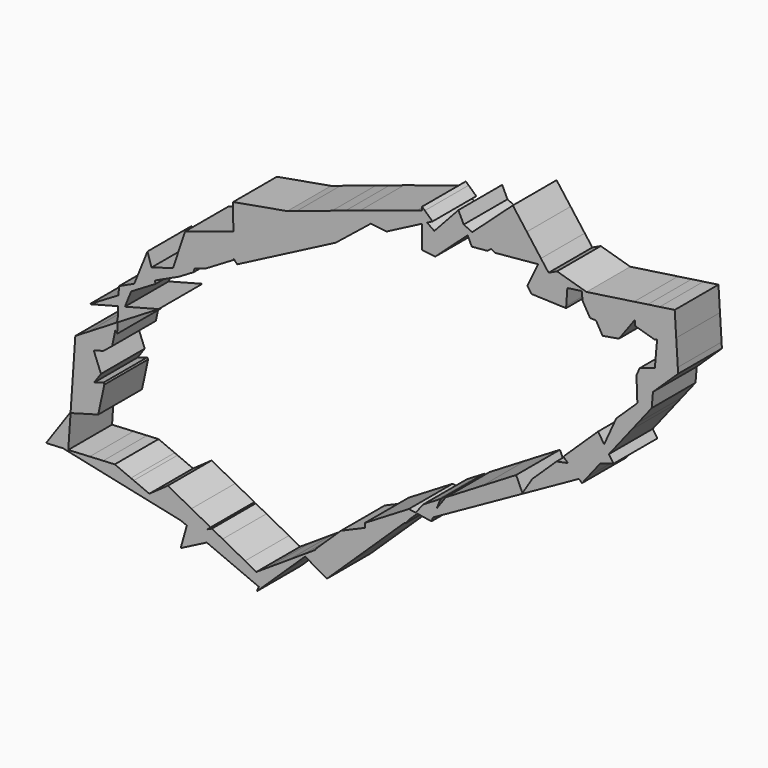
from build123d import *

# Parameters (mm, degrees)
F1_DEPTH = 25.4


with BuildPart() as f1:
    # F0 (on Front) → F1 (new body)
    with BuildSketch(Plane.XZ):
        Polygon((-83.2220044887, 34.1819998944), (-81.8421875712, 32.7432366085), (-62.7305352638, 42.6557927488), (-60.8082101417, 43.6528366143), (-57.3657237442, 54.0301553549), (-83.6656720096, 45.5152120146), (-83.5831125741, 34.5585346716), align=None)
        Polygon((-96.8397507042, 26.0700082279), (-83.5786744089, 33.9695342357), (-83.5831125741, 34.5585346716), (-83.6656720096, 45.5152120146), (-106.0841596035, 38.2569410207), (-111.6215479857, 21.5645746327), (-101.6926651441, 24.5908590192), align=None)
        Polygon((-108.7854865984, 18.9540208618), (-102.0132495787, 22.9881928458), (-101.6926651441, 24.5908590192), (-111.6215479857, 21.5645746327), (-113.1604924798, 16.9254517152), align=None)
        Polygon((-137.3900234875, -9.0144044901), (-118.3311260267, 2.5917971458), (-133.992912574, -1.5184298071), (-137.110999293, -2.3367300716), (-137.320639215, -7.3538833201), align=None)
        Polygon((-131.0952053419, 5.6642848317), (-119.7552560668, 12.4194095463), (-120.149881275, 13.6846655659), (-129.6335617545, 9.2873453934), align=None)
        Polygon((-57.3657237442, 54.0301553549), (-60.8082101417, 43.6528366143), (-52.7419894493, 47.8365076108), (-40.268303578, 54.3061790702), (-37.7829690162, 68.97902882), (-54.2202595592, 63.5121055114), (-54.4607710501, 62.7870875698), align=None)
        Polygon((-83.7567299604, 57.5997494161), (-83.6656720096, 45.5152120146), (-57.3657237442, 54.0301553549), (-54.4607710501, 62.7870875698), (-58.6081506785, 62.0527248323), align=None)
        Polygon((-113.1604924798, 16.9254517152), (-111.6215479857, 21.5645746327), (-121.6538629104, 18.5067645547), (-120.149881275, 13.6846655659), align=None)
        Polygon((-137.588918752, -13.7744139984), (-137.3900234875, -9.0144044901), (-137.7185016842, -9.2144362176), (-138.4735216764, -12.7451905435), align=None)
        Polygon((-137.7185016842, -9.2144362176), (-137.3900234875, -9.0144044901), (-137.320639215, -7.3538833201), align=None)
        Polygon((-137.110999293, -2.3367300716), (-133.992912574, -1.5184298071), (-131.0952053419, 5.6642848317), (-136.9217060714, 2.193481028), align=None)
        Polygon((-136.9217060714, 2.193481028), (-131.0952053419, 5.6642848317), (-129.6335617545, 9.2873453934), (-136.7634282695, 5.9814236132), align=None)
        Polygon((-129.6335617545, 9.2873453934), (-120.149881275, 13.6846655659), (-121.6538629104, 18.5067645547), (-123.5114459593, 24.46258817), align=None)
        Polygon((-138.4735216764, -12.7451905435), (-137.7185016842, -9.2144362176), (-140.2061353838, -10.7293180922), align=None)
        Polygon((-150.3664255142, -5.8154398575), (-137.110999293, -2.3367300716), (-136.9217060714, 2.193481028), align=None)
        Polygon((-37.7829690162, 68.97902882), (-40.268303578, 54.3061790702), (-36.132622101, 56.451214683), (-34.5214768981, 57.7440159398), (-23.0167889149, 66.9755085808), (-19.7767771506, 69.5753309142), (-31.4743959147, 71.0772143599), align=None)
        Polygon((-58.6081506785, 62.0527248323), (-54.4607710501, 62.7870875698), (-54.2202595592, 63.5121055114), align=None)
        Polygon((-138.4735216764, -12.7451905435), (-140.2061353838, -10.7293180922), (-151.1045144158, -17.3660495616), (-148.47218649, -24.0432336133), (-144.0369706442, -22.8790033584), (-139.934687589, -19.5781458552), align=None)
        Polygon((-148.47218649, -24.0432336133), (-151.1045144158, -17.3660495616), (-157.0042679633, -20.9587930252), (-157.3767672125, -26.3806581368), align=None)
        Polygon((-24.7313212603, 73.3199119568), (-31.4743959147, 71.0772143599), (-19.7767771506, 69.5753309142), (-12.6044620847, 68.6544613353), (-5.0561815839, 72.5694945843), (3.9570122026, 77.2443279255), (3.9570122026, 80.1097009528), (1.5176249669, 81.8183427374), align=None)
        Polygon((-145.1019902875, -32.592100232), (-148.47218649, -24.0432336133), (-157.3767672125, -26.3806581368), (-158.3560655042, -40.6347089949), (-148.3430013656, -37.2399311525), align=None)
        Polygon((3.9570122026, 82.6081254353), (1.5176249669, 81.8183427374), (3.9570122026, 80.1097009528), align=None)
        Polygon((6.3074038346, 78.4633951537), (3.9570122026, 77.2443279255), (3.9570122026, 69.9554303164), (9.6375205337, 76.130851777), align=None)
        Polygon((3.9570122026, 80.1097009528), (3.9570122026, 77.2443279255), (6.3074038346, 78.4633951537), align=None)
        Polygon((-148.3430013656, -37.2399311525), (-158.3560655042, -40.6347089949), (-159.191701905, -52.7977075985), align=None)
        Polygon((-143.5561278048, -36.5133473586), (-143.8678261901, -35.7226907437), (-148.3430013656, -37.2399311525), (-159.191701905, -52.7977075985), (-159.2188908761, -53.1934531856), (-146.3605087762, -49.6276759164), align=None)
        Polygon((3.9570122026, 84.2269028658), (3.9570122026, 82.6081254353), (5.258677497, 83.029556159), align=None)
        Polygon((5.258677497, 83.029556159), (3.9570122026, 82.6081254353), (3.9570122026, 80.1097009528), (6.3074038346, 78.4633951537), (8.8110007136, 79.7619246694), align=None)
        Polygon((9.6375205337, 76.130851777), (3.9570122026, 69.9554303164), (3.9570122026, 66.5280965964), (10.0217575965, 65.7494303658), (16.3161148342, 71.452904333), align=None)
        Polygon((-159.2188908761, -53.1934531856), (-159.191701905, -52.7977075985), (-159.5261994105, -53.2773998339), (-159.5251493026, -53.2783821702), align=None)
        Polygon((-131.1995151419, -70.6480673811), (-138.6882314909, -67.4803139058), (-144.0476950401, -67.7569572917), (-137.1515022254, -74.2080857542), (-137.0731192929, -74.2248867772), align=None)
        Polygon((18.27172145, 85.5173056869), (9.6375205337, 76.130851777), (16.3161148342, 71.452904333), (16.4564557344, 71.5800707205), (25.1033162583, 79.4152065469), (23.2838190174, 83.1990578257), align=None)
        Polygon((-159.5251493026, -53.2783821702), (-159.5261994105, -53.2773998339), (-159.5273003709, -53.2789786862), align=None)
        Polygon((-122.6549564349, -74.2624459042), (-129.8790989263, -71.2066081056), (-131.1995151419, -70.6480673811), (-137.0731192929, -74.2248867772), (-125.974684884, -76.6037854092), align=None)
        Polygon((-137.1515022254, -74.2080857542), (-144.0476950401, -67.7569572917), (-150.306375451, -68.0800162181), (-150.9828370801, -71.2434024166), align=None)
        Polygon((-160.2770036051, -68.5946774909), (-159.2428677772, -53.5424458982), (-159.5251493026, -53.2783821702), (-159.5273003709, -53.2789786862), (-169.3142597187, -67.3141458537), (-162.7456269018, -68.7221022417), align=None)
        Polygon((-150.9828370801, -71.2434024166), (-150.306375451, -68.0800162181), (-160.2770036051, -68.5946774909), (-160.3214569175, -69.2417119855), align=None)
        Polygon((20.8311303709, 88.299702588), (18.27172145, 85.5173056869), (23.2838190174, 83.1990578257), align=None)
        Polygon((-103.0939009169, -74.0315394588), (-114.0614935244, -68.2016446954), (-122.6549564349, -74.2624459042), (-108.0238063557, -80.4514740834), (-105.2409542057, -81.6286303753), align=None)
        Polygon((-108.0238063557, -80.4514740834), (-122.6549564349, -74.2624459042), (-125.974684884, -76.6037854092), align=None)
        Polygon((-137.1097174905, -74.2471737989), (-137.0731192929, -74.2248867772), (-137.1515022254, -74.2080857542), align=None)
        Polygon((-160.3214569175, -69.2417119855), (-160.2770036051, -68.5946774909), (-162.7456269018, -68.7221022417), align=None)
        Polygon((27.2530746021, 81.3631561606), (23.2838190174, 83.1990578257), (25.1033162583, 79.4152065469), align=None)
        Polygon((-162.7456269018, -68.7221022417), (-169.3142597187, -67.3141458537), (-170.5779681883, -69.126389983), align=None)
        Polygon((-95.6277698278, -80.0357535481), (-94.201444684, -78.7583820652), (-103.0939009169, -74.0315394588), (-105.2409542057, -81.6286303753), (-96.0043826367, -85.5357327842), (-88.6155886567, -81.7275799529), (-93.5849167756, -79.0861014612), align=None)
        Polygon((27.2530746021, 81.3631561606), (25.1033162583, 79.4152065469), (27.052459988, 75.3617406616), (34.2249594607, 76.0275427159), (35.9689739141, 77.3317871246), align=None)
        Polygon((46.0874680728, 98.4294694939), (27.2530746021, 81.3631561606), (35.9689739141, 77.3317871246), (52.5926474392, 89.7636412323), align=None)
        Polygon((10.1829350137, -33.8672764992), (4.4702975126, -37.3182424142), (0.9464814216, -41.8267046353), (1.7530890085, -41.9517503273), align=None)
        Polygon((-96.0043826367, -85.5357327842), (-105.2409542057, -81.6286303753), (-108.1081842189, -91.7739803777), align=None)
        Polygon((52.5926474392, 89.7636412323), (35.9689739141, 77.3317871246), (38.0259418984, 76.3803767489), (57.8187099214, 78.2176812561), (59.1624292223, 81.0117533225), align=None)
        Polygon((-78.2046141015, -87.2616007917), (-88.6155886567, -81.7275799529), (-96.0043826367, -85.5357327842), (-83.8550035386, -90.6749630696), align=None)
        Polygon((-2.1883967992, -41.3407148892), (-22.600604938, -53.671592618), (-22.6006050298, -55.6794670081), (-4.3696717015, -47.8236605242), (-1.8581907254, -45.4150753367), (0.9464814216, -41.8267046353), align=None)
        Polygon((10.7509668241, -36.91112682), (12.5576870842, -32.4327047362), (10.1829350137, -33.8672764992), (1.7530890085, -41.9517503273), (6.2882476991, -42.6548208983), (6.899109846, -42.3141659703), align=None)
        Polygon((47.6308353676, -11.2452516147), (38.9015665051, -16.5185442577), (31.8688408262, -20.7669665674), (14.9920420386, -30.9621272716), (10.7509668241, -36.91112682), (9.0566194566, -41.1110037106), (50.2576824285, -18.1347148523), (50.5394385805, -17.6877290619), align=None)
        Polygon((1.7530890085, -41.9517503273), (0.9464814216, -41.8267046353), (-1.8581907254, -45.4150753367), align=None)
        Polygon((-72.9480253365, -90.0557745372), (-78.2046141015, -87.2616007917), (-83.8550035386, -90.6749630696), (-77.8088409329, -93.2325112144), align=None)
        Polygon((-22.6006050298, -55.6794670081), (-33.698808137, -60.4617419668), (-35.3296609384, -62.0257784606), (-29.2743595238, -71.7079991906), (-22.6006054698, -65.3076699378), align=None)
        Polygon((-29.2743595238, -71.7079991906), (-35.3296609384, -62.0257784606), (-45.6164911128, -71.8911555111), (-45.4382328828, -72.0770290089), (-37.8785451079, -79.9596698764), align=None)
        Polygon((-4.3696717015, -47.8236605242), (-22.6006050298, -55.6794670081), (-22.6006054698, -65.3076699378), align=None)
        Polygon((9.0566194566, -41.1110037106), (10.7509668241, -36.91112682), (6.899109846, -42.3141659703), align=None)
        Polygon((-3.4213518331, -47.4150244309), (-1.8581907254, -45.4150753367), (-4.3696717015, -47.8236605242), align=None)
        Polygon((62.6858396208, 76.3180673087), (59.1624292223, 81.0117533225), (57.8187099214, 78.2176812561), (55.2084180986, 72.7899528145), align=None)
        Polygon((55.2084180986, 72.7899528145), (53.4943394657, 69.2257714974), (52.8425835073, 67.8705382161), (54.7278077733, 65.0536690648), (70.8168573561, 64.4762931582), (70.8808902592, 65.4010890937), (62.6858396208, 76.3180673087), align=None)
        Polygon((-68.0694435404, -86.8674269407), (-72.9480253365, -90.0557745372), (-77.8088409329, -93.2325112144), (-71.8314441703, -95.7609711647), align=None)
        Polygon((8.3075116182, -42.967860669), (9.0566194566, -41.1110037106), (6.899109846, -42.3141659703), (6.6196307782, -42.7061941151), align=None)
        Polygon((6.6196307782, -42.7061941151), (6.899109846, -42.3141659703), (6.2882476991, -42.6548208983), align=None)
        Polygon((55.122395939, -10.4171981355), (50.5394385805, -17.6877290619), (50.6439820537, -17.9192900274), (76.7985609069, -3.3338615129), (71.6520492349, 1.4469224687), (66.3937779637, 0.4046296355), align=None)
        Polygon((50.6439820537, -17.9192900274), (50.5394385805, -17.6877290619), (50.2576824285, -18.1347148523), align=None)
        Polygon((66.601661771, 78.1656920339), (62.6858396208, 76.3180673087), (70.8808902592, 65.4010890937), (71.3509781846, 72.1903393348), (71.3994726539, 72.8907212615), (78.0543461442, 73.8611215548), (78.0543461442, 73.9799588919), (78.066567374, 73.86290363), (80.3035312814, 74.1890932165), align=None)
        Polygon((-37.8785451079, -79.9596698764), (-45.4382328828, -72.0770290089), (-46.6062857525, -72.8403981017), (-50.3388742153, -76.4200618013), (-40.1765755975, -82.1635496789), align=None)
        Polygon((-50.3388742153, -76.4200618013), (-46.6062857525, -72.8403981017), (-51.2745052393, -75.8912655469), align=None)
        Polygon((-50.3388742153, -76.4200618013), (-51.2745052393, -75.8912655469), (-57.9289257758, -80.2401945208), (-59.856688783, -85.5479299409), align=None)
        Polygon((-59.856688783, -85.5479299409), (-57.9289257758, -80.2401945208), (-68.0694435404, -86.8674269407), (-71.8314441703, -95.7609711647), (-70.9117077191, -96.1500229332), align=None)
        Polygon((78.0543461442, 11.6001210388), (69.5312743193, 3.4169882901), (71.6520492349, 1.4469224687), (76.7985609069, -3.3338615129), (81.0965899738, -0.9370117658), (86.7240490358, 6.2296912772), (90.7041509653, 11.2984458068), (88.492213764, 14.6034837161), (85.6326607698, 18.8761778252), align=None)
        Polygon((-70.9117077191, -96.1500229332), (-71.8314441703, -95.7609711647), (-72.7361355849, -97.8997036892), align=None)
        Polygon((81.0965899738, -0.9370117658), (76.7985609069, -3.3338615129), (78.1955405339, -4.6315672695), align=None)
        Polygon((101.2827017831, 68.1004536666), (80.3035312814, 74.1890932165), (78.066567374, 73.86290363), (78.4743000329, 69.9576294477), (81.937090069, 64.0772295335), (84.7092196345, 63.9777481556), (87.7580763981, 58.6705772621), (95.3640148894, 59.9969731432), align=None)
        Polygon((102.4163098523, 77.4135341983), (80.3035312814, 74.1890932165), (101.2827017831, 68.1004536666), (102.6838129113, 70.0187637483), align=None)
        Polygon((108.7605518462, 78.3386388304), (102.4163098523, 77.4135341983), (102.6838129113, 70.0187637483), align=None)
        Polygon((90.7041509653, 11.2984458068), (86.7240490358, 6.2296912772), (92.851835789, 8.0894126773), align=None)
        Polygon((90.7500159009, 19.5932785946), (88.492213764, 14.6034837161), (90.7041509653, 11.2984458068), (101.3329963347, 24.8345333401), (97.3562285691, 30.1321561345), (94.1071845392, 27.0126988368), align=None)
        Polygon((114.251603441, 79.1393329511), (108.7605518462, 78.3386388304), (102.6838129113, 70.0187637483), (102.768809276, 67.6691509678), (111.3735864841, 65.1718459946), (112.0059033393, 64.9883330473), (113.0595876303, 65.4079796889), align=None)
        Polygon((121.2329442018, 80.1573380465), (114.251603441, 79.1393329511), (113.0595876303, 65.4079796889), (121.9355389452, 68.9429694312), align=None)
        Polygon((97.3562285691, 30.1321561345), (101.3329963347, 24.8345333401), (104.1868602073, 28.4689969009), (103.8994384745, 36.4143929099), (101.7366829534, 34.3378979683), align=None)
        Polygon((121.9355389452, 68.9429694312), (113.0595876303, 65.4079796889), (112.9981591027, 64.7003575201), (112.0266442571, 53.5090516452), (122.6728916371, 57.1738166381), align=None)
        Polygon((103.8994384745, 36.4143929099), (104.1868602073, 28.4689969009), (110.5571900332, 36.5817635414), (111.1467012255, 43.3726016843), align=None)
        Polygon((112.0266442571, 53.5090516452), (105.0022470184, 51.0910385954), (103.4894588145, 47.7477417189), (103.8994384745, 36.4143929099), (111.1467012255, 43.3726016843), align=None)
        Polygon((122.8345052922, 54.5942426821), (122.6728916371, 57.1738166381), (112.0266442571, 53.5090516452), (111.1467012255, 43.3726016843), align=None)
    extrude(amount=F1_DEPTH)


solid = f1.part
